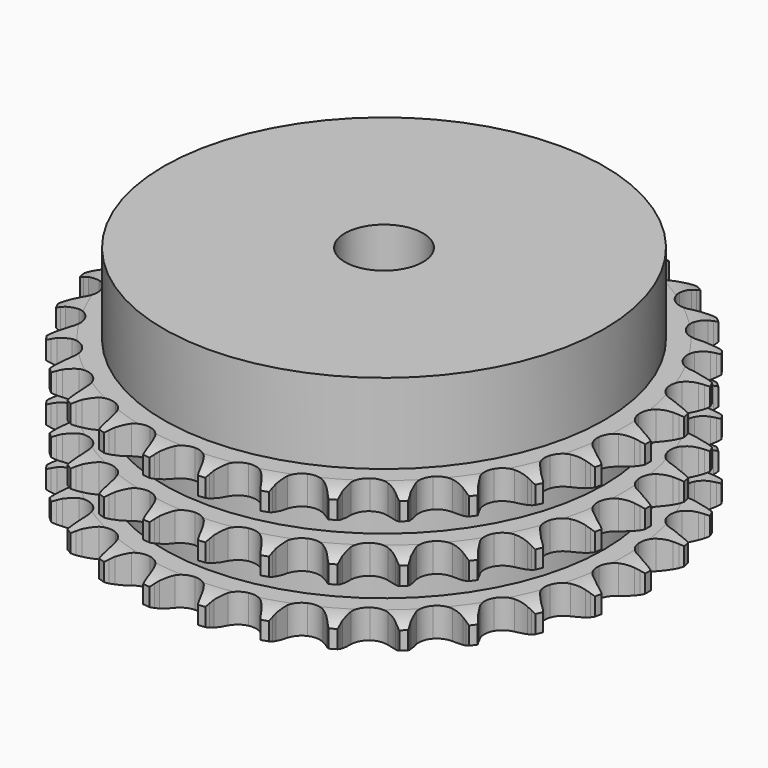
from build123d import *

# Parameters (mm, degrees)
PAD_DEPTH         = 25.6
SKETCH001_R       = 39.5
PAD001_DEPTH      = 40
SKETCH002_R       = 7
POCKET_DEPTH      = 0.001
POCKET_DEPTH_BACK = 40.001


with BuildPart() as part:
    # Sprocket → Pad (new body)
    with BuildSketch(Plane.XY):
        with BuildLine():
            ThreePointArc((-5.060688, 48.149228), (-4.457638, 47.360855), (-4.016581, 46.47166))
            Line((-4.016581, 46.47166), (-3.706936, 45.659362))
            ThreePointArc((-3.706936, 45.659362), (-3.214807, 44.599161), (-2.578774, 43.618507))
            ThreePointArc((-2.578774, 43.618507), (-1.440762, 42.672032), (0, 42.332778))
            ThreePointArc((0, 42.332778), (1.440762, 42.672032), (2.578774, 43.618507))
            ThreePointArc((2.578774, 43.618507), (3.214807, 44.599161), (3.706936, 45.659362))
            Line((3.706936, 45.659362), (4.016581, 46.47166))
            ThreePointArc((4.016581, 46.47166), (4.457638, 47.360855), (5.060688, 48.149228))
            ThreePointArc((5.060688, 48.149228), (5.486647, 47.252702), (5.733192, 46.291237))
            Line((5.733192, 46.291237), (5.867184, 45.432311))
            ThreePointArc((5.867184, 45.432311), (6.128131, 44.292958), (6.546376, 43.201495))
            ThreePointArc((6.546376, 43.201495), (7.462737, 42.039097), (8.801479, 41.407705))
            ThreePointArc((8.801479, 41.407705), (10.281292, 41.439995), (11.591219, 42.129181))
            Line((11.591219, 42.129181), (13.119046, 43.89088))
            ThreePointArc((13.119046, 43.89088), (13.345373, 44.262138), (13.590811, 44.621049))
            ThreePointArc((13.590811, 44.621049), (14.207104, 45.399112), (14.960887, 46.044875))
            ThreePointArc((14.960887, 46.044875), (15.19114, 45.079379), (15.232397, 44.087665))
            Line((15.232397, 44.087665), (15.184881, 43.21965))
            ThreePointArc((15.184881, 43.21965), (15.20324, 42.05094), (15.385418, 40.896371))
            ThreePointArc((15.385418, 40.896371), (16.040078, 39.568852), (17.218292, 38.672917))
            ThreePointArc((17.218292, 38.672917), (18.67248, 38.396831), (20.097073, 38.798607))
            Line((20.097073, 38.798607), (21.957791, 40.204156))
            ThreePointArc((21.957791, 40.204156), (22.25636, 40.520245), (22.571057, 40.820283))
            ThreePointArc((22.571057, 40.820283), (23.335651, 41.453209), (24.207223, 41.928141))
            ThreePointArc((24.207223, 41.928141), (24.231707, 40.935871), (24.065874, 39.95725))
            Line((24.065874, 39.95725), (23.838925, 39.118083))
            ThreePointArc((23.838925, 39.118083), (23.613895, 37.971095), (23.552043, 36.803879))
            ThreePointArc((23.552043, 36.803879), (23.916391, 35.369258), (24.882582, 34.247937))
            ThreePointArc((24.882582, 34.247937), (26.247592, 33.675541), (27.724587, 33.772348))
            Line((27.724587, 33.772348), (29.836874, 34.760318))
            ThreePointArc((29.836874, 34.760318), (30.194638, 35.007423), (30.564839, 35.235475))
            ThreePointArc((30.564839, 35.235475), (31.444317, 35.695603), (32.395588, 35.978946))
            ThreePointArc((32.395588, 35.978946), (32.213232, 35.003269), (31.847556, 34.080512))
            Line((31.847556, 34.080512), (31.451094, 33.306867))
            ThreePointArc((31.451094, 33.306867), (30.99251, 32.231731), (30.689331, 31.102881))
            ThreePointArc((30.689331, 31.102881), (30.747442, 29.623857), (31.459385, 28.326157))
            ThreePointArc((31.459385, 28.326157), (32.675558, 27.482468), (34.140405, 27.270075))
            Line((34.140405, 27.270075), (36.411943, 27.797286))
            ThreePointArc((36.411943, 27.797286), (36.813266, 27.964609), (37.222791, 28.110708))
            ThreePointArc((37.222791, 28.110708), (38.178717, 28.377927), (39.16811, 28.457298))
            ThreePointArc((39.16811, 28.457298), (38.786884, 27.540856), (38.237347, 26.714291))
            Line((38.237347, 26.714291), (37.6887, 26.039982))
            ThreePointArc((37.6887, 26.039982), (37.016602, 25.083685), (36.485348, 24.042537))
            ThreePointArc((36.485348, 24.042537), (36.234683, 22.583752), (36.661261, 21.166389))
            ThreePointArc((36.661261, 21.166389), (37.675445, 20.08828), (39.064122, 19.57597))
            Line((39.064122, 19.57597), (41.395636, 19.61938))
            ThreePointArc((41.395636, 19.61938), (41.822977, 19.699607), (42.253929, 19.757369))
            ThreePointArc((42.253929, 19.757369), (43.244523, 19.819999), (44.228798, 19.69193))
            ThreePointArc((44.228798, 19.69193), (43.665364, 18.874775), (42.955983, 18.180529))
            Line((42.955983, 18.180529), (42.279128, 17.635025))
            ThreePointArc((42.279128, 17.635025), (41.422892, 16.839362), (40.68678, 15.93142))
            ThreePointArc((40.68678, 15.93142), (40.138294, 14.556629), (40.260864, 13.081548))
            ThreePointArc((40.260864, 13.081548), (41.028734, 11.816137), (42.28055, 11.0263))
            Line((42.28055, 11.0263), (44.57014, 10.584013))
            ThreePointArc((44.57014, 10.584013), (45.004823, 10.573637), (45.438367, 10.540537))
            ThreePointArc((45.438367, 10.540537), (46.420336, 10.395843), (47.356475, 10.06593))
            ThreePointArc((47.356475, 10.06593), (46.635457, 9.383776), (45.797236, 8.852189))
            Line((45.797236, 8.852189), (45.021755, 8.459332))
            ThreePointArc((45.021755, 8.459332), (44.018803, 7.859078), (43.110005, 7.124023))
            ThreePointArc((43.110005, 7.124023), (42.28767, 5.893311), (42.100874, 4.42498))
            ThreePointArc((42.100874, 4.42498), (42.588871, 3.027573), (43.649116, 1.994728))
            Line((43.649116, 1.994728), (45.796716, 1.086074))
            ThreePointArc((45.796716, 1.086074), (46.219742, 0.985549), (46.63693, 0.863033))
            ThreePointArc((46.63693, 0.863033), (47.567358, 0.517338), (48.414447, 0))
            ThreePointArc((48.414447, 0), (47.567358, -0.517338), (46.63693, -0.863033))
            Line((46.63693, -0.863033), (45.796716, -1.086074))
            ThreePointArc((45.796716, -1.086074), (44.690881, -1.464686), (43.649116, -1.994728))
            ThreePointArc((43.649116, -1.994728), (42.588871, -3.027573), (42.100874, -4.42498))
            ThreePointArc((42.100874, -4.42498), (42.28767, -5.893311), (43.110005, -7.124023))
            Line((43.110005, -7.124023), (45.021755, -8.459332))
            ThreePointArc((45.021755, -8.459332), (45.414637, -8.645612), (45.797236, -8.852189))
            ThreePointArc((45.797236, -8.852189), (46.635457, -9.383776), (47.356475, -10.06593))
            ThreePointArc((47.356475, -10.06593), (46.420336, -10.395843), (45.438367, -10.540537))
            Line((45.438367, -10.540537), (44.57014, -10.584013))
            ThreePointArc((44.57014, -10.584013), (43.409752, -10.724435), (42.28055, -11.0263))
            ThreePointArc((42.28055, -11.0263), (41.028734, -11.816137), (40.260864, -13.081548))
            ThreePointArc((40.260864, -13.081548), (40.138294, -14.556629), (40.68678, -15.93142))
            Line((40.68678, -15.93142), (42.279128, -17.635025))
            ThreePointArc((42.279128, -17.635025), (42.624694, -17.898919), (42.955983, -18.180529))
            ThreePointArc((42.955983, -18.180529), (43.665364, -18.874775), (44.228798, -19.69193))
            ThreePointArc((44.228798, -19.69193), (43.244523, -19.819999), (42.253929, -19.757369))
            Line((42.253929, -19.757369), (41.395636, -19.61938))
            ThreePointArc((41.395636, -19.61938), (40.23141, -19.515476), (39.064122, -19.57597))
            ThreePointArc((39.064122, -19.57597), (37.675445, -20.08828), (36.661261, -21.166389))
            ThreePointArc((36.661261, -21.166389), (36.234683, -22.583752), (36.485348, -24.042537))
            Line((36.485348, -24.042537), (37.6887, -26.039982))
            ThreePointArc((37.6887, -26.039982), (37.971848, -26.369957), (38.237347, -26.714291))
            ThreePointArc((38.237347, -26.714291), (38.786884, -27.540856), (39.16811, -28.457298))
            ThreePointArc((39.16811, -28.457298), (38.178717, -28.377927), (37.222791, -28.110708))
            Line((37.222791, -28.110708), (36.411943, -27.797286))
            ThreePointArc((36.411943, -27.797286), (35.294761, -27.453596), (34.140405, -27.270075))
            ThreePointArc((34.140405, -27.270075), (32.675558, -27.482468), (31.459385, -28.326157))
            ThreePointArc((31.459385, -28.326157), (30.747442, -29.623857), (30.689331, -31.102881))
            Line((30.689331, -31.102881), (31.451094, -33.306867))
            ThreePointArc((31.451094, -33.306867), (31.65945, -33.688501), (31.847556, -34.080512))
            ThreePointArc((31.847556, -34.080512), (32.213232, -35.003269), (32.395588, -35.978946))
            ThreePointArc((32.395588, -35.978946), (31.444317, -35.695603), (30.564839, -35.235475))
            Line((30.564839, -35.235475), (29.836874, -34.760318))
            ThreePointArc((29.836874, -34.760318), (28.815562, -34.191863), (27.724587, -33.772348))
            ThreePointArc((27.724587, -33.772348), (26.247592, -33.675541), (24.882582, -34.247937))
            ThreePointArc((24.882582, -34.247937), (23.916391, -35.369258), (23.552043, -36.803879))
            Line((23.552043, -36.803879), (23.838925, -39.118083))
            ThreePointArc((23.838925, -39.118083), (23.963382, -39.534696), (24.065874, -39.95725))
            ThreePointArc((24.065874, -39.95725), (24.231707, -40.935871), (24.207223, -41.928141))
            ThreePointArc((24.207223, -41.928141), (23.335651, -41.453209), (22.571057, -40.820283))
            Line((22.571057, -40.820283), (21.957791, -40.204156))
            ThreePointArc((21.957791, -40.204156), (21.076985, -39.435781), (20.097073, -38.798607))
            ThreePointArc((20.097073, -38.798607), (18.67248, -38.396831), (17.218292, -38.672917))
            ThreePointArc((17.218292, -38.672917), (16.040078, -39.568852), (15.385418, -40.896371))
            Line((15.385418, -40.896371), (15.184881, -43.21965))
            ThreePointArc((15.184881, -43.21965), (15.219999, -43.653035), (15.232397, -44.087665))
            ThreePointArc((15.232397, -44.087665), (15.19114, -45.079379), (14.960887, -46.044875))
            ThreePointArc((14.960887, -46.044875), (14.207104, -45.399112), (13.590811, -44.621049))
            Line((13.590811, -44.621049), (13.119046, -43.89088))
            ThreePointArc((13.119046, -43.89088), (12.417243, -42.956166), (11.591219, -42.129181))
            ThreePointArc((11.591219, -42.129181), (10.281292, -41.439995), (8.801479, -41.407705))
            ThreePointArc((8.801479, -41.407705), (7.462737, -42.039097), (6.546376, -43.201495))
            Line((6.546376, -43.201495), (5.867184, -45.432311))
            ThreePointArc((5.867184, -45.432311), (5.811429, -45.863528), (5.733192, -46.291237))
            ThreePointArc((5.733192, -46.291237), (5.486647, -47.252702), (5.060688, -48.149228))
            ThreePointArc((5.060688, -48.149228), (4.457638, -47.360855), (4.016581, -46.47166))
            Line((4.016581, -46.47166), (3.706936, -45.659362))
            ThreePointArc((3.706936, -45.659362), (3.214807, -44.599161), (2.578774, -43.618507))
            ThreePointArc((2.578774, -43.618507), (1.440762, -42.672032), (0, -42.332778))
            ThreePointArc((0, -42.332778), (-1.440762, -42.672032), (-2.578774, -43.618507))
            Line((-2.578774, -43.618507), (-3.706936, -45.659362))
            ThreePointArc((-3.706936, -45.659362), (-3.851128, -46.069563), (-4.016581, -46.47166))
            ThreePointArc((-4.016581, -46.47166), (-4.457638, -47.360855), (-5.060688, -48.149228))
            ThreePointArc((-5.060688, -48.149228), (-5.486647, -47.252702), (-5.733192, -46.291237))
            Line((-5.733192, -46.291237), (-5.867184, -45.432311))
            ThreePointArc((-5.867184, -45.432311), (-6.128131, -44.292958), (-6.546376, -43.201495))
            ThreePointArc((-6.546376, -43.201495), (-7.462737, -42.039097), (-8.801479, -41.407705))
            ThreePointArc((-8.801479, -41.407705), (-10.281292, -41.439995), (-11.591219, -42.129181))
            Line((-11.591219, -42.129181), (-13.119046, -43.89088))
            ThreePointArc((-13.119046, -43.89088), (-13.345373, -44.262138), (-13.590811, -44.621049))
            ThreePointArc((-13.590811, -44.621049), (-14.207104, -45.399112), (-14.960887, -46.044875))
            ThreePointArc((-14.960887, -46.044875), (-15.19114, -45.079379), (-15.232397, -44.087665))
            Line((-15.232397, -44.087665), (-15.184881, -43.21965))
            ThreePointArc((-15.184881, -43.21965), (-15.20324, -42.05094), (-15.385418, -40.896371))
            ThreePointArc((-15.385418, -40.896371), (-16.040078, -39.568852), (-17.218292, -38.672917))
            ThreePointArc((-17.218292, -38.672917), (-18.67248, -38.396831), (-20.097073, -38.798607))
            Line((-20.097073, -38.798607), (-21.957791, -40.204156))
            ThreePointArc((-21.957791, -40.204156), (-22.25636, -40.520245), (-22.571057, -40.820283))
            ThreePointArc((-22.571057, -40.820283), (-23.335651, -41.453209), (-24.207223, -41.928141))
            ThreePointArc((-24.207223, -41.928141), (-24.231707, -40.935871), (-24.065874, -39.95725))
            Line((-24.065874, -39.95725), (-23.838925, -39.118083))
            ThreePointArc((-23.838925, -39.118083), (-23.613895, -37.971095), (-23.552043, -36.803879))
            ThreePointArc((-23.552043, -36.803879), (-23.916391, -35.369258), (-24.882582, -34.247937))
            ThreePointArc((-24.882582, -34.247937), (-26.247592, -33.675541), (-27.724587, -33.772348))
            Line((-27.724587, -33.772348), (-29.836874, -34.760318))
            ThreePointArc((-29.836874, -34.760318), (-30.194638, -35.007423), (-30.564839, -35.235475))
            ThreePointArc((-30.564839, -35.235475), (-31.444317, -35.695603), (-32.395588, -35.978946))
            ThreePointArc((-32.395588, -35.978946), (-32.213232, -35.003269), (-31.847556, -34.080512))
            Line((-31.847556, -34.080512), (-31.451094, -33.306867))
            ThreePointArc((-31.451094, -33.306867), (-30.99251, -32.231731), (-30.689331, -31.102881))
            ThreePointArc((-30.689331, -31.102881), (-30.747442, -29.623857), (-31.459385, -28.326157))
            ThreePointArc((-31.459385, -28.326157), (-32.675558, -27.482468), (-34.140405, -27.270075))
            Line((-34.140405, -27.270075), (-36.411943, -27.797286))
            ThreePointArc((-36.411943, -27.797286), (-36.813266, -27.964609), (-37.222791, -28.110708))
            ThreePointArc((-37.222791, -28.110708), (-38.178717, -28.377927), (-39.16811, -28.457298))
            ThreePointArc((-39.16811, -28.457298), (-38.786884, -27.540856), (-38.237347, -26.714291))
            Line((-38.237347, -26.714291), (-37.6887, -26.039982))
            ThreePointArc((-37.6887, -26.039982), (-37.016602, -25.083685), (-36.485348, -24.042537))
            ThreePointArc((-36.485348, -24.042537), (-36.234683, -22.583752), (-36.661261, -21.166389))
            ThreePointArc((-36.661261, -21.166389), (-37.675445, -20.08828), (-39.064122, -19.57597))
            Line((-39.064122, -19.57597), (-41.395636, -19.61938))
            ThreePointArc((-41.395636, -19.61938), (-41.822977, -19.699607), (-42.253929, -19.757369))
            ThreePointArc((-42.253929, -19.757369), (-43.244523, -19.819999), (-44.228798, -19.69193))
            ThreePointArc((-44.228798, -19.69193), (-43.665364, -18.874775), (-42.955983, -18.180529))
            Line((-42.955983, -18.180529), (-42.279128, -17.635025))
            ThreePointArc((-42.279128, -17.635025), (-41.422892, -16.839362), (-40.68678, -15.93142))
            ThreePointArc((-40.68678, -15.93142), (-40.138294, -14.556629), (-40.260864, -13.081548))
            ThreePointArc((-40.260864, -13.081548), (-41.028734, -11.816137), (-42.28055, -11.0263))
            Line((-42.28055, -11.0263), (-44.57014, -10.584013))
            ThreePointArc((-44.57014, -10.584013), (-45.004823, -10.573637), (-45.438367, -10.540537))
            ThreePointArc((-45.438367, -10.540537), (-46.420336, -10.395843), (-47.356475, -10.06593))
            ThreePointArc((-47.356475, -10.06593), (-46.635457, -9.383776), (-45.797236, -8.852189))
            Line((-45.797236, -8.852189), (-45.021755, -8.459332))
            ThreePointArc((-45.021755, -8.459332), (-44.018803, -7.859078), (-43.110005, -7.124023))
            ThreePointArc((-43.110005, -7.124023), (-42.28767, -5.893311), (-42.100874, -4.42498))
            ThreePointArc((-42.100874, -4.42498), (-42.588871, -3.027573), (-43.649116, -1.994728))
            Line((-43.649116, -1.994728), (-45.796716, -1.086074))
            ThreePointArc((-45.796716, -1.086074), (-46.219742, -0.985549), (-46.63693, -0.863033))
            ThreePointArc((-46.63693, -0.863033), (-47.567358, -0.517338), (-48.414447, 0))
            ThreePointArc((-48.414447, 0), (-47.567358, 0.517338), (-46.63693, 0.863033))
            Line((-46.63693, 0.863033), (-45.796716, 1.086074))
            ThreePointArc((-45.796716, 1.086074), (-44.690881, 1.464686), (-43.649116, 1.994728))
            ThreePointArc((-43.649116, 1.994728), (-42.588871, 3.027573), (-42.100874, 4.42498))
            ThreePointArc((-42.100874, 4.42498), (-42.28767, 5.893311), (-43.110005, 7.124023))
            Line((-43.110005, 7.124023), (-45.021755, 8.459332))
            ThreePointArc((-45.021755, 8.459332), (-45.414637, 8.645612), (-45.797236, 8.852189))
            ThreePointArc((-45.797236, 8.852189), (-46.635457, 9.383776), (-47.356475, 10.06593))
            ThreePointArc((-47.356475, 10.06593), (-46.420336, 10.395843), (-45.438367, 10.540537))
            Line((-45.438367, 10.540537), (-44.57014, 10.584013))
            ThreePointArc((-44.57014, 10.584013), (-43.409752, 10.724435), (-42.28055, 11.0263))
            ThreePointArc((-42.28055, 11.0263), (-41.028734, 11.816137), (-40.260864, 13.081548))
            ThreePointArc((-40.260864, 13.081548), (-40.138294, 14.556629), (-40.68678, 15.93142))
            Line((-40.68678, 15.93142), (-42.279128, 17.635025))
            ThreePointArc((-42.279128, 17.635025), (-42.624694, 17.898919), (-42.955983, 18.180529))
            ThreePointArc((-42.955983, 18.180529), (-43.665364, 18.874775), (-44.228798, 19.69193))
            ThreePointArc((-44.228798, 19.69193), (-43.244523, 19.819999), (-42.253929, 19.757369))
            Line((-42.253929, 19.757369), (-41.395636, 19.61938))
            ThreePointArc((-41.395636, 19.61938), (-40.23141, 19.515476), (-39.064122, 19.57597))
            ThreePointArc((-39.064122, 19.57597), (-37.675445, 20.08828), (-36.661261, 21.166389))
            ThreePointArc((-36.661261, 21.166389), (-36.234683, 22.583752), (-36.485348, 24.042537))
            Line((-36.485348, 24.042537), (-37.6887, 26.039982))
            ThreePointArc((-37.6887, 26.039982), (-37.971848, 26.369957), (-38.237347, 26.714291))
            ThreePointArc((-38.237347, 26.714291), (-38.786884, 27.540856), (-39.16811, 28.457298))
            ThreePointArc((-39.16811, 28.457298), (-38.178717, 28.377927), (-37.222791, 28.110708))
            Line((-37.222791, 28.110708), (-36.411943, 27.797286))
            ThreePointArc((-36.411943, 27.797286), (-35.294761, 27.453596), (-34.140405, 27.270075))
            ThreePointArc((-34.140405, 27.270075), (-32.675558, 27.482468), (-31.459385, 28.326157))
            ThreePointArc((-31.459385, 28.326157), (-30.747442, 29.623857), (-30.689331, 31.102881))
            Line((-30.689331, 31.102881), (-31.451094, 33.306867))
            ThreePointArc((-31.451094, 33.306867), (-31.65945, 33.688501), (-31.847556, 34.080512))
            ThreePointArc((-31.847556, 34.080512), (-32.213232, 35.003269), (-32.395588, 35.978946))
            ThreePointArc((-32.395588, 35.978946), (-31.444317, 35.695603), (-30.564839, 35.235475))
            Line((-30.564839, 35.235475), (-29.836874, 34.760318))
            ThreePointArc((-29.836874, 34.760318), (-28.815562, 34.191863), (-27.724587, 33.772348))
            ThreePointArc((-27.724587, 33.772348), (-26.247592, 33.675541), (-24.882582, 34.247937))
            ThreePointArc((-24.882582, 34.247937), (-23.916391, 35.369258), (-23.552043, 36.803879))
            Line((-23.552043, 36.803879), (-23.838925, 39.118083))
            ThreePointArc((-23.838925, 39.118083), (-23.963382, 39.534696), (-24.065874, 39.95725))
            ThreePointArc((-24.065874, 39.95725), (-24.231707, 40.935871), (-24.207223, 41.928141))
            ThreePointArc((-24.207223, 41.928141), (-23.335651, 41.453209), (-22.571057, 40.820283))
            Line((-22.571057, 40.820283), (-21.957791, 40.204156))
            ThreePointArc((-21.957791, 40.204156), (-21.076985, 39.435781), (-20.097073, 38.798607))
            ThreePointArc((-20.097073, 38.798607), (-18.67248, 38.396831), (-17.218292, 38.672917))
            ThreePointArc((-17.218292, 38.672917), (-16.040078, 39.568852), (-15.385418, 40.896371))
            Line((-15.385418, 40.896371), (-15.184881, 43.21965))
            ThreePointArc((-15.184881, 43.21965), (-15.219999, 43.653035), (-15.232397, 44.087665))
            ThreePointArc((-15.232397, 44.087665), (-15.19114, 45.079379), (-14.960887, 46.044875))
            ThreePointArc((-14.960887, 46.044875), (-14.207104, 45.399112), (-13.590811, 44.621049))
            Line((-13.590811, 44.621049), (-13.119046, 43.89088))
            ThreePointArc((-13.119046, 43.89088), (-12.417243, 42.956166), (-11.591219, 42.129181))
            ThreePointArc((-11.591219, 42.129181), (-10.281292, 41.439995), (-8.801479, 41.407705))
            ThreePointArc((-8.801479, 41.407705), (-7.462737, 42.039097), (-6.546376, 43.201495))
            Line((-6.546376, 43.201495), (-5.867184, 45.432311))
            ThreePointArc((-5.867184, 45.432311), (-5.811429, 45.863528), (-5.733192, 46.291237))
            ThreePointArc((-5.733192, 46.291237), (-5.486647, 47.252702), (-5.060688, 48.149228))
        make_face()
    extrude(amount=PAD_DEPTH)

    # Sketch → Groove (revolve, cut)
    with BuildSketch(Plane.XZ):
        with BuildLine():
            ThreePointArc((42.991101, 0), (45.227169, 0.253206), (47.35, 1))
            Line((47.35, 1), (47.35, 4.2))
            ThreePointArc((47.35, 4.2), (45.227169, 4.946794), (42.991101, 5.2))
            Line((39.5, 5.2), (42.991101, 5.2))
            Line((39.5, 5.2), (39.5, 10.2))
            Line((39.5, 10.2), (42.991101, 10.2))
            ThreePointArc((42.991101, 10.2), (45.227169, 10.453206), (47.35, 11.2))
            Line((47.35, 14.4), (47.35, 11.2))
            ThreePointArc((47.35, 14.4), (45.227169, 15.146794), (42.991101, 15.4))
            Line((39.5, 15.4), (42.991101, 15.4))
            Line((39.5, 20.4), (39.5, 15.4))
            Line((42.991101, 20.4), (39.5, 20.4))
            ThreePointArc((42.991101, 20.4), (45.227169, 20.653206), (47.35, 21.4))
            Line((47.35, 21.4), (47.35, 24.6))
            ThreePointArc((47.35, 24.6), (45.227169, 25.346794), (42.991101, 25.6))
            Line((42.991101, 25.6), (57.35, 25.6))
            Line((57.35, 25.6), (57.35, 0))
            Line((42.991101, 0), (57.35, 0))
        make_face()
    revolve(axis=Axis((0, 0, 0), (0, 0, 1)), mode=Mode.SUBTRACT)

    # Sketch001 → Pad001 (join)
    with BuildSketch(Plane.XY):
        Circle(SKETCH001_R)
    extrude(amount=PAD001_DEPTH)

    # Sketch002 → Pocket (cut, two sides)
    with BuildSketch(Plane.XY) as pocket_sk:
        Circle(SKETCH002_R)
    extrude(amount=-POCKET_DEPTH, mode=Mode.SUBTRACT)
    extrude(pocket_sk.sketch, amount=POCKET_DEPTH_BACK, mode=Mode.SUBTRACT)


solid = part.part
